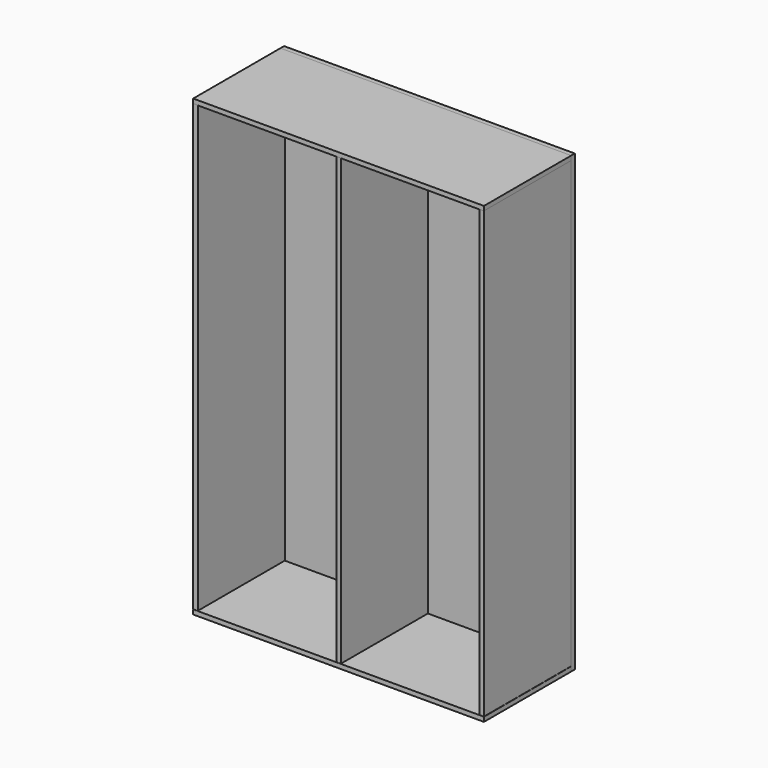
from build123d import *

# Parameters (mm, degrees)
F0_W     = 1219.2
F0_H     = 1905
F1_DEPTH = 19.05
F2_W     = 1219.2
F2_H     = 19.05
F3_DEPTH = 457.2
F5_W     = 19.05
F5_H     = 1866.9
F6_DEPTH = 457.2


with BuildPart() as f1:
    # F0 (on Front) → F1 (new body)
    with BuildSketch(Plane.XZ):
        with Locations((609.6, 952.5)):
            Rectangle(F0_W, F0_H)
    extrude(amount=F1_DEPTH)


with BuildPart() as f3:
    # F2 (on face) → F3 (new body)
    with BuildSketch(Plane.XZ.offset(19.05)):
        with Locations((609.6, 1895.475)):
            Rectangle(F2_W, F2_H)
    extrude(amount=F3_DEPTH)


with BuildPart() as f4_1:
    # F4: copy of F3
    add(f3.part.moved(Location((0, 0, -1885.95))))


with BuildPart() as f6:
    # F5 (on face) → F6 (new body)
    with BuildSketch(Plane.XZ.offset(19.05)):
        with Locations((9.525, 953.2090261459)):
            Rectangle(F5_W, F5_H)
    extrude(amount=F6_DEPTH)


with BuildPart() as f7_1:
    # F7: copy of F6
    add(f6.part.moved(Location((600.075, 0, 0))))


with BuildPart() as f8_1:
    # F8: copy of F7_1
    add(f7_1.part.moved(Location((600.075, 0, 0))))


solid = Compound([f1.part, f3.part, f4_1.part, f6.part, f7_1.part, f8_1.part])
